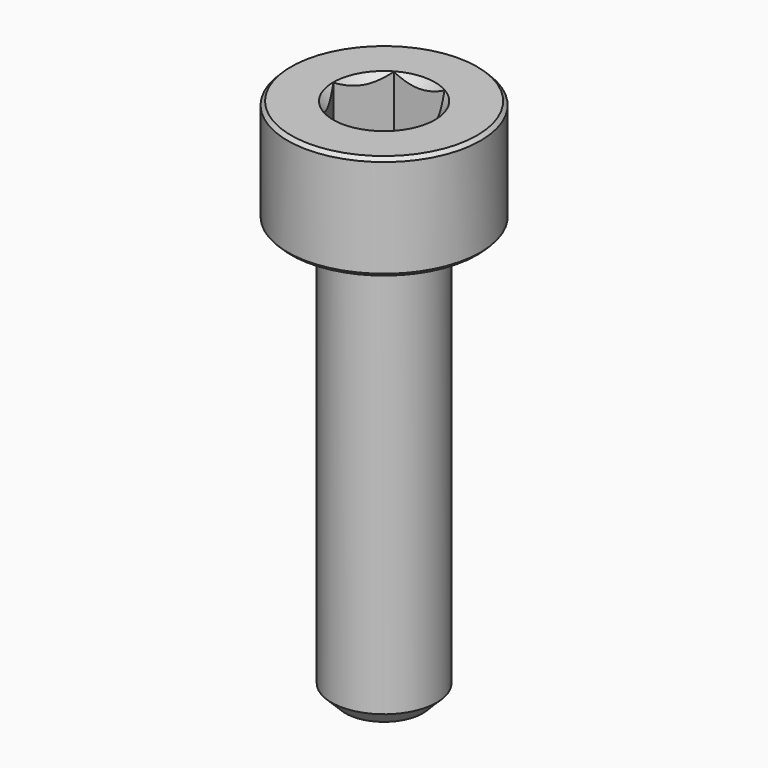
from build123d import *

# Parameters (mm, degrees)
SKETCH014_R     = 3.75
POCKET006_DEPTH = 9.70192
CHAMFER007_SIZE = 0.4
CHAMFER006_SIZE = 0.1


with BuildPart() as pocket006:
    # Sketch015 → Revolution006 (revolve)
    with BuildSketch(Plane.XZ):
        Polygon((0, 0.29908), (2.75, 1.3), (2.75, 10), (0, 10), align=None)
    revolve(axis=Axis((0, 0, 0), (0, 0, 1)))

    # Sketch014 (on Face3 of Revolution006) → Pocket006 (cut, through all)
    with BuildSketch(Plane(origin=(0, 0, 10), x_dir=(-1, 0, 0), z_dir=(0, 0, 1))):
        Circle(SKETCH014_R)
        Polygon((-0.721688, 1.25), (0.721688, 1.25), (1.443376, 0), (0.721688, -1.25), (-0.721688, -1.25), (-1.443376, 0), align=None, mode=Mode.SUBTRACT)
    extrude(amount=-POCKET006_DEPTH, mode=Mode.SUBTRACT)


with BuildPart() as chamfer006:
    # Sketch016 → Revolution007 (revolve)
    with BuildSketch(Plane.XZ):
        Polygon((1.45, 3), (2.75, 3), (2.75, 0), (1.5, 0), (1.5, -12), (0, -12), (0, 1.549999), align=None)
    revolve(axis=Axis((0, 0, 0), (0, 0, 1)))

    # Cut003: cut Pocket006
    add(pocket006.part, mode=Mode.SUBTRACT)

    # Chamfer007
    chamfer007_edges = [chamfer006.edges().sort_by_distance(p)[0] for p in [
        (-1.5, 0, -12),
    ]]
    chamfer(chamfer007_edges, length=CHAMFER007_SIZE)

    # Chamfer006
    chamfer006_edges = [chamfer006.edges().sort_by_distance(p)[0] for p in [
        (-2.75, 0, 0),
        (-2.75, 0, 3),
    ]]
    chamfer(chamfer006_edges, length=CHAMFER006_SIZE)


solid = chamfer006.part
